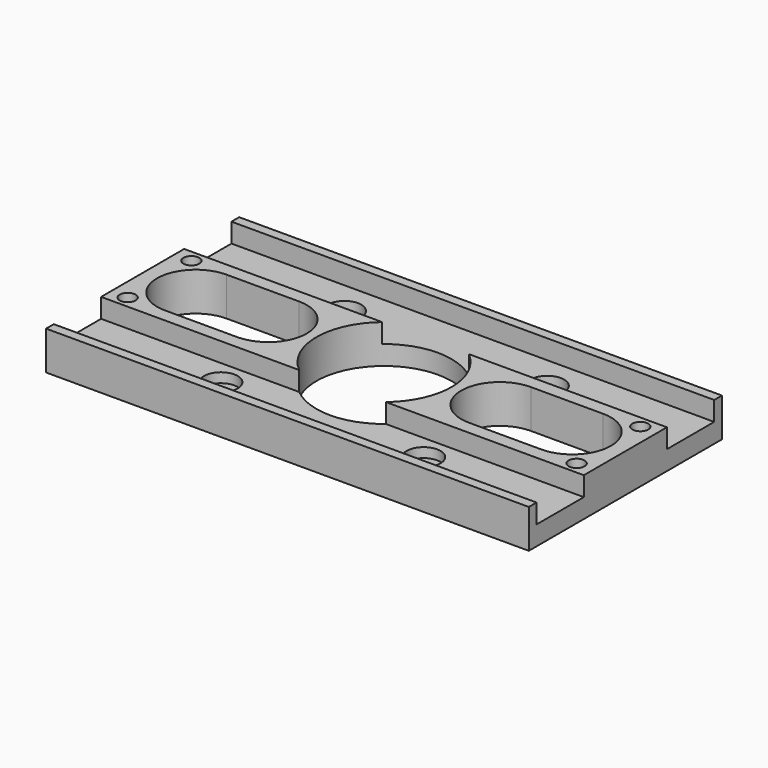
from build123d import *

# Parameters (mm, degrees)
SKETCH292_W     = 100
SKETCH292_H     = 50
SKETCH292_R     = 14
SKETCH292_R_2   = 1.75
SKETCH292_R_3   = 1.65
PAD139_DEPTH    = 8
SKETCH293_W     = 100
SKETCH293_H     = 12.25
POCKET126_DEPTH = 4
POCKET127_DEPTH = 8.001
SKETCH295_R     = 3.5
POCKET128_DEPTH = 2


with BuildPart() as part:
    # Sketch292 → Pad139 (new body)
    with BuildSketch(Plane.XY):
        with Locations((50, 25)):
            Rectangle(SKETCH292_W, SKETCH292_H)
        with Locations((50, 25)):
            Circle(SKETCH292_R, mode=Mode.SUBTRACT)
        with Locations((29, 41)):
            Circle(SKETCH292_R_2, mode=Mode.SUBTRACT)
        with Locations((71, 41)):
            Circle(SKETCH292_R_2, mode=Mode.SUBTRACT)
        with Locations((71, 9)):
            Circle(SKETCH292_R_2, mode=Mode.SUBTRACT)
        with Locations((29, 9)):
            Circle(SKETCH292_R_2, mode=Mode.SUBTRACT)
        with Locations((96.5, 33.25)):
            Circle(SKETCH292_R_3, mode=Mode.SUBTRACT)
        with Locations((3.5, 33.25)):
            Circle(SKETCH292_R_3, mode=Mode.SUBTRACT)
        with Locations((3.5, 16.75)):
            Circle(SKETCH292_R_3, mode=Mode.SUBTRACT)
        with Locations((96.5, 16.75)):
            Circle(SKETCH292_R_3, mode=Mode.SUBTRACT)
    extrude(amount=PAD139_DEPTH)

    # Sketch293 (on Face15 of Pad139) → Pocket126 (cut)
    with BuildSketch(Plane.XY.offset(8)):
        with Locations((50, 41.875)):
            Rectangle(SKETCH293_W, SKETCH293_H)
        with Locations((50, 8.125)):
            Rectangle(SKETCH293_W, SKETCH293_H)
    extrude(amount=-POCKET126_DEPTH, mode=Mode.SUBTRACT)

    # Sketch294 (on Face9 of Pocket126) → Pocket127 (cut, through all)
    with BuildSketch(Plane.XY.offset(8)):
        with BuildLine():
            ThreePointArc((11, 33), (3, 25), (11, 17))
            Line((11, 17), (26, 17))
            ThreePointArc((26, 17), (34, 25), (26, 33))
            Line((26, 33), (11, 33))
        make_face()
        with BuildLine():
            ThreePointArc((74, 33), (66, 25), (74, 17))
            Line((74, 17), (89, 17))
            ThreePointArc((89, 17), (97, 25), (89, 33))
            Line((89, 33), (74, 33))
        make_face()
    extrude(amount=-POCKET127_DEPTH, mode=Mode.SUBTRACT)

    # Sketch295 (on Face11 of Pocket127) → Pocket128 (cut)
    with BuildSketch(Plane.XY.offset(4)):
        with Locations((29, 41)):
            Circle(SKETCH295_R)
        with Locations((71, 41)):
            Circle(SKETCH295_R)
        with Locations((29, 9)):
            Circle(SKETCH295_R)
        with Locations((71, 9)):
            Circle(SKETCH295_R)
    extrude(amount=-POCKET128_DEPTH, mode=Mode.SUBTRACT)


with BuildPart() as part_1:
    # Body103 placement: moved
    add(part.part.moved(Location((-25, -5, 20))))


solid = part_1.part
